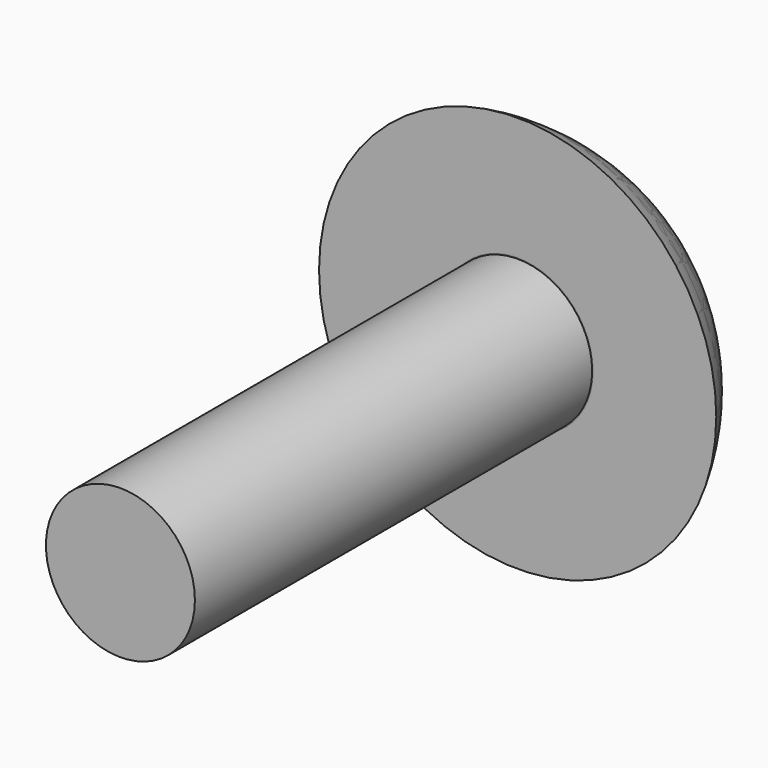
from build123d import *

# Parameters (mm, degrees)
SKETCH001_R  = 1.5
PAD_DEPTH    = 10
SKETCH003_R  = 1.52
POCKET_DEPTH = 5


with BuildPart() as body:
    # Sketch → Revolution (revolve)
    with BuildSketch(Plane.XY):
        with BuildLine():
            ThreePointArc((4, 0), (2.342329, 1.780776), (0, 2.438447))
            Line((0, 0), (0, 2.438447))
            Line((0, 0), (4, 0))
        make_face()
    revolve(axis=Axis((0, 0, 0), (0, 1, 0)))

    # Sketch001 → Pad (new body)
    with BuildSketch(Plane.XZ):
        Circle(SKETCH001_R)
    extrude(amount=PAD_DEPTH)


with BuildPart() as body001:
    # Sketch002 → Revolution001 (revolve)
    with BuildSketch(Plane.XY):
        with BuildLine():
            ThreePointArc((4, 0), (2.342329, 1.780776), (0, 2.438447))
            Line((0, 0), (0, 2.438447))
            Line((0, 0), (4, 0))
        make_face()
    revolve(axis=Axis((0, 0, 0), (0, 1, 0)))

    # Sketch003 → Pocket (cut)
    with BuildSketch(Plane.XZ):
        Circle(SKETCH003_R)
    extrude(amount=-POCKET_DEPTH, mode=Mode.SUBTRACT)


solid = Compound([body.part, body001.part])
